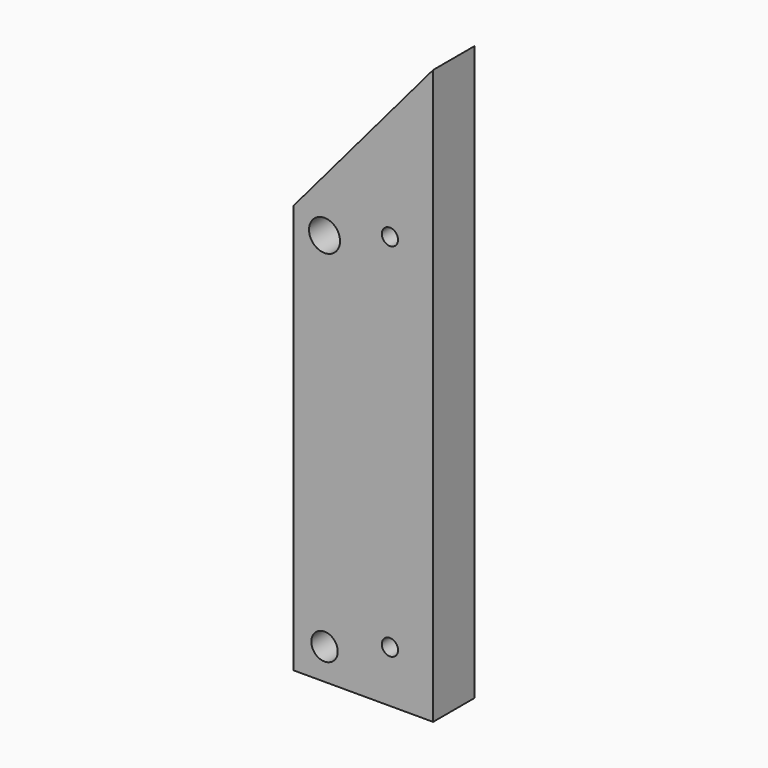
from build123d import *

# Parameters (mm, degrees)
F0_R     = 2.554654
F0_R_2   = 1.573486
F0_R_3   = 3
F1_DEPTH = 10


with BuildPart() as f1:
    # F0 (on Front) → F1 (new body)
    with BuildSketch(Plane.XZ):
        Polygon((-57.889797, 80.625616), (-57.889797, 1.519148), (-30.889797, 1.519148), (-30.889797, 112.519148), align=None)
        with Locations((-51.889797, 7.519148)):
            Circle(F0_R, mode=Mode.SUBTRACT)
        with Locations((-39.247134, 11.526519)):
            Circle(F0_R_2, mode=Mode.SUBTRACT)
        with Locations((-51.889797, 77.519148)):
            Circle(F0_R_3, mode=Mode.SUBTRACT)
        with Locations((-39.247134, 81.3893)):
            Circle(F0_R_2, mode=Mode.SUBTRACT)
    extrude(amount=-F1_DEPTH)


solid = f1.part
